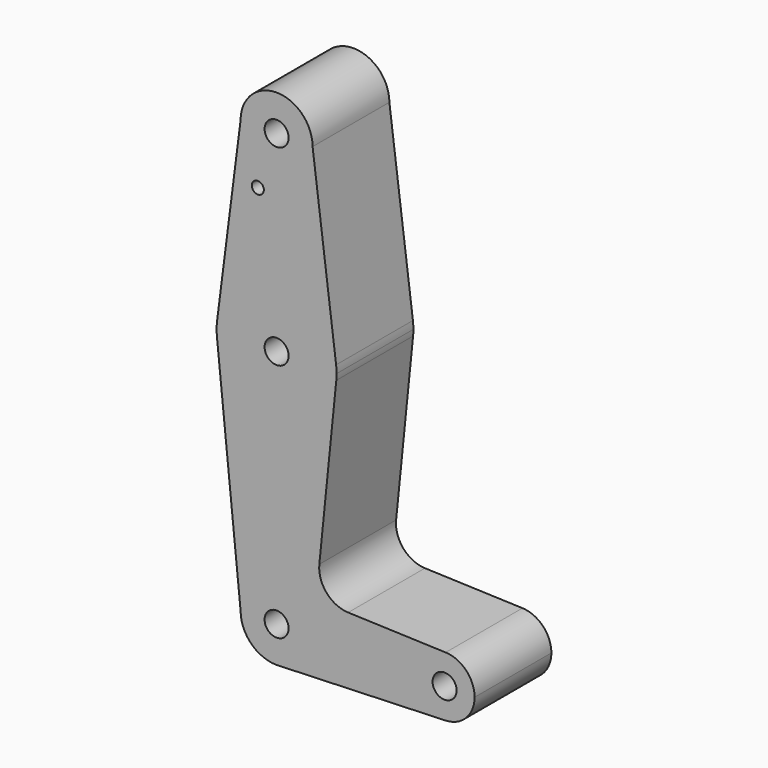
from build123d import *

# Parameters (mm, degrees)
F0_R     = 3.175
F0_R_2   = 1.5875
F1_DEPTH = 25.4


with BuildPart() as f1:
    # F0 (on Front) → F1 (new body)
    with BuildSketch(Plane.XZ):
        with BuildLine():
            ThreePointArc((-9.525, 70.523976), (0, 60.998976), (9.525, 70.523976))
            ThreePointArc((9.525, 70.523976), (0, 80.048976), (-9.525, 70.523976))
        make_face()
        with Locations((0, 70.523976)):
            Circle(F0_R, mode=Mode.SUBTRACT)
        with BuildLine():
            Line((15.747457, 21.732266), (9.525, 70.523976))
            ThreePointArc((9.525, 70.523976), (0, 60.998976), (-9.525, 70.523976))
            Line((-9.525, 70.523976), (-15.747457, 21.732266))
            ThreePointArc((-15.747457, 21.732266), (0, 35.598976), (15.747457, 21.732266))
        make_face()
        with Locations((-4.959356, 56.249176)):
            Circle(F0_R_2, mode=Mode.SUBTRACT)
        with BuildLine():
            ThreePointArc((15.875, 19.723976), (15.843082, 20.730144), (15.747457, 21.732266))
            ThreePointArc((15.747457, 21.732266), (0, 35.598976), (-15.747457, 21.732266))
            ThreePointArc((-15.747457, 21.732266), (-15.873668, 19.929643), (-15.794203, 18.124357))
            ThreePointArc((-15.794203, 18.124357), (0, 3.848976), (15.794203, 18.124357))
            ThreePointArc((15.794203, 18.124357), (15.854788, 18.923147), (15.875, 19.723976))
        make_face()
        with Locations((0, 19.723976)):
            Circle(F0_R, mode=Mode.SUBTRACT)
        with BuildLine():
            ThreePointArc((15.794203, 18.124357), (0, 3.848976), (-15.794203, 18.124357))
            Line((-15.794203, 18.124357), (-9.525, -43.776024))
            ThreePointArc((-9.525, -43.776024), (0, -34.251024), (9.525, -43.776024))
            ThreePointArc((9.525, -43.776024), (6.970557, -50.267323), (0.677344, -53.27691))
            Line((0.677344, -53.27691), (44.732405, -51.708498))
            ThreePointArc((44.732405, -51.708498), (36.5125, -43.776024), (44.732405, -35.843549))
            Line((44.732405, -35.843549), (18.934103, -34.9251))
            ThreePointArc((18.934103, -34.9251), (13.224974, -32.205044), (11.307223, -26.178844))
            Line((11.307223, -26.178844), (15.794203, 18.124357))
        make_face()
        with BuildLine():
            ThreePointArc((9.525, -43.776024), (0, -34.251024), (-9.525, -43.776024))
            ThreePointArc((-9.525, -43.776024), (-6.735192, -50.511216), (0, -53.301024))
            Line((0, -53.301024), (0.677344, -53.27691))
            ThreePointArc((0.677344, -53.27691), (6.970557, -50.267323), (9.525, -43.776024))
        make_face()
        with Locations((0, -43.776024)):
            Circle(F0_R, mode=Mode.SUBTRACT)
        with BuildLine():
            Line((0.677344, -53.27691), (0, -53.301024))
            ThreePointArc((0, -53.301024), (0.338886, -53.294993), (0.677344, -53.27691))
        make_face()
        with BuildLine():
            ThreePointArc((52.3875, -43.776024), (50.161633, -38.264113), (44.732405, -35.843549))
            ThreePointArc((44.732405, -35.843549), (36.5125, -43.776024), (44.732405, -51.708498))
            ThreePointArc((44.732405, -51.708498), (50.161633, -49.287934), (52.3875, -43.776024))
        make_face()
        with Locations((44.45, -43.776024)):
            Circle(F0_R, mode=Mode.SUBTRACT)
    extrude(amount=F1_DEPTH)


solid = f1.part
